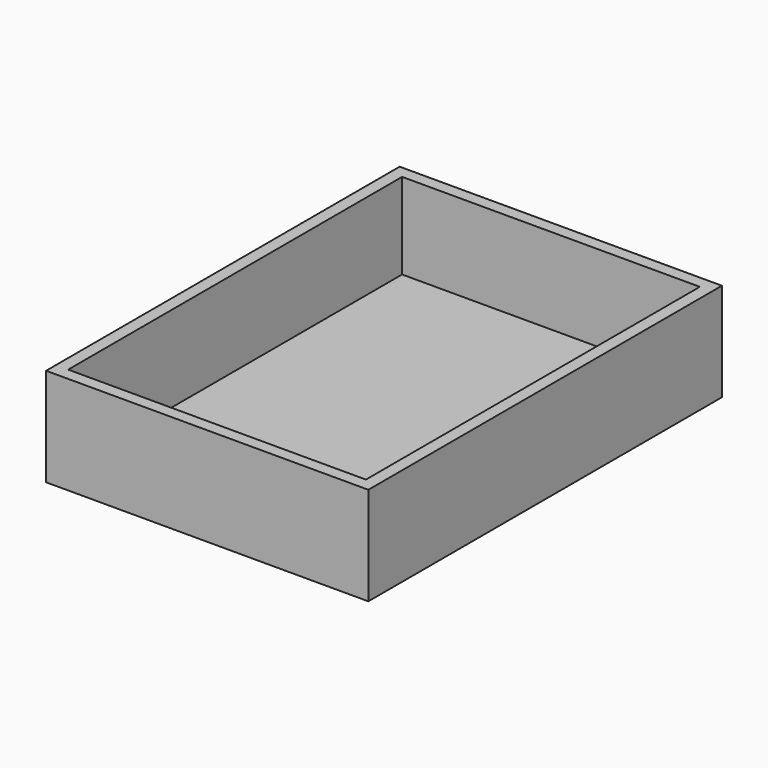
from build123d import *

# Parameters (mm, degrees)
F0_W     = 333.375
F0_H     = 457.2
F0_W_2   = 307.975
F0_H_2   = 431.8
F1_DEPTH = 101.6
F2_W     = 307.975
F2_H     = 6.35
F3_DEPTH = 431.8


with BuildPart() as f1:
    # F0 (on Top) → F1 (new body)
    with BuildSketch(Plane.XY):
        Rectangle(F0_W, F0_H)
        Rectangle(F0_W_2, F0_H_2, mode=Mode.SUBTRACT)
    extrude(amount=F1_DEPTH)

    # F2 (on face) → F3 (join)
    with BuildSketch(Plane.XZ.offset(-215.9)):
        with Locations((0, 9.525)):
            Rectangle(F2_W, F2_H)
    extrude(amount=F3_DEPTH)


solid = f1.part
